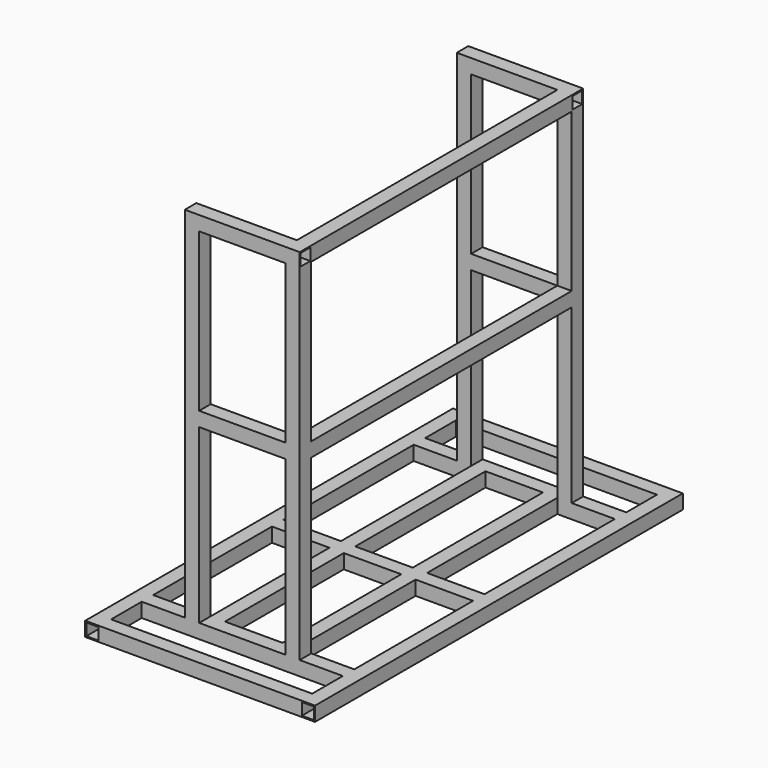
from build123d import *

# Parameters (mm, degrees)
F0_W      = 38.1
F0_H      = 38.1
F0_W_2    = 31.75
F0_H_2    = 31.75
F1_DEPTH  = 1219.2
F2_W      = 38.1
F2_H      = 38.1
F2_W_2    = 31.75
F2_H_2    = 31.75
F3_DEPTH  = 533.4
F4_W      = 38.1
F4_H      = 38.1
F4_W_2    = 31.75
F4_H_2    = 31.75
F5_DEPTH  = 1219.2
F6_W      = 38.1
F6_H      = 38.1
F6_W_2    = 31.75
F6_H_2    = 31.75
F7_DEPTH  = 533.4
F8_W      = 38.1
F8_H      = 38.1
F8_W_2    = 31.75
F8_H_2    = 31.75
F9_DEPTH  = 863.6
F10_W     = 38.1
F10_H     = 38.1
F10_W_2   = 31.75
F10_H_2   = 31.75
F11_DEPTH = 914.4
F12_W     = 38.1
F12_H     = 38.1
F12_W_2   = 31.75
F12_H_2   = 31.75
F13_DEPTH = 304.8
F14_W     = 38.1
F14_H     = 38.1
F14_W_2   = 31.75
F14_H_2   = 31.75
F15_DEPTH = 863.6
F16_W     = 38.1
F16_H     = 38.1
F16_W_2   = 31.75
F16_H_2   = 31.75
F17_DEPTH = 254


with BuildPart() as f1:
    # F0 (on Front) → F1 (new body)
    with BuildSketch(Plane.XZ):
        with Locations((19.05, 19.05)):
            Rectangle(F0_W, F0_H)
        with Locations((19.05, 19.05)):
            Rectangle(F0_W_2, F0_H_2, mode=Mode.SUBTRACT)
    extrude(amount=F1_DEPTH)

    # F2 (on face) → F3 (join)
    with BuildSketch(Plane.YZ.offset(38.1)):
        with Locations((-1200.15, 19.05)):
            Rectangle(F2_W, F2_H)
        with Locations((-1200.15, 19.05)):
            Rectangle(F2_W_2, F2_H_2, mode=Mode.SUBTRACT)
        with Locations((-19.05, 19.05)):
            Rectangle(F2_W, F2_H)
        with Locations((-19.05, 19.05)):
            Rectangle(F2_W_2, F2_H_2, mode=Mode.SUBTRACT)
    extrude(amount=F3_DEPTH)

    # F4 (on face) → F5 (join)
    with BuildSketch(Plane(origin=(0, 0, 0), x_dir=(-1, 0, 0), z_dir=(0, 1, 0))):
        with Locations((-590.55, 19.05)):
            Rectangle(F4_W, F4_H)
        with Locations((-590.55, 19.05)):
            Rectangle(F4_W_2, F4_H_2, mode=Mode.SUBTRACT)
    extrude(amount=-F5_DEPTH)

    # F6 (on face) → F7 (join)
    with BuildSketch(Plane.YZ.offset(38.1)):
        with Locations((-1060.45, 19.05)):
            Rectangle(F6_W, F6_H)
        with Locations((-1060.45, 19.05)):
            Rectangle(F6_W_2, F6_H_2, mode=Mode.SUBTRACT)
        with Locations((-158.75, 19.05)):
            Rectangle(F6_W, F6_H)
        with Locations((-158.75, 19.05)):
            Rectangle(F6_W_2, F6_H_2, mode=Mode.SUBTRACT)
        with Locations((-628.65, 19.05)):
            Rectangle(F6_W, F6_H)
        with Locations((-628.65, 19.05)):
            Rectangle(F6_W_2, F6_H_2, mode=Mode.SUBTRACT)
    extrude(amount=F7_DEPTH)

    # F8 (on face) → F9 (join)
    with BuildSketch(Plane.XZ.offset(177.8)):
        with Locations((209.55, 19.05)):
            Rectangle(F8_W, F8_H)
        with Locations((209.55, 19.05)):
            Rectangle(F8_W_2, F8_H_2, mode=Mode.SUBTRACT)
        with Locations((400.05, 19.05)):
            Rectangle(F8_W, F8_H)
        with Locations((400.05, 19.05)):
            Rectangle(F8_W_2, F8_H_2, mode=Mode.SUBTRACT)
    extrude(amount=F9_DEPTH)

    # F10 (on face) → F11 (join)
    with BuildSketch(Plane.XY.offset(38.1)):
        with Locations((438.15, -158.75)):
            Rectangle(F10_W, F10_H)
        with Locations((438.15, -158.75)):
            Rectangle(F10_W_2, F10_H_2, mode=Mode.SUBTRACT)
        with Locations((171.45, -158.75)):
            Rectangle(F10_W, F10_H)
        with Locations((171.45, -158.75)):
            Rectangle(F10_W_2, F10_H_2, mode=Mode.SUBTRACT)
        with Locations((438.15, -1060.45)):
            Rectangle(F10_W, F10_H)
        with Locations((438.15, -1060.45)):
            Rectangle(F10_W_2, F10_H_2, mode=Mode.SUBTRACT)
        with Locations((171.45, -1060.45)):
            Rectangle(F10_W, F10_H)
        with Locations((171.45, -1060.45)):
            Rectangle(F10_W_2, F10_H_2, mode=Mode.SUBTRACT)
    extrude(amount=F11_DEPTH)

    # F12 (on face) → F13 (join)
    with BuildSketch(Plane(origin=(152.4, 0, 0), x_dir=(0, -1, 0), z_dir=(-1, 0, 0))):
        with Locations((1060.45, 971.55)):
            Rectangle(F12_W, F12_H)
        with Locations((1060.45, 971.55)):
            Rectangle(F12_W_2, F12_H_2, mode=Mode.SUBTRACT)
        with Locations((158.75, 971.55)):
            Rectangle(F12_W, F12_H)
        with Locations((158.75, 971.55)):
            Rectangle(F12_W_2, F12_H_2, mode=Mode.SUBTRACT)
    extrude(amount=-F13_DEPTH)

    # F14 (on face) → F15 (join)
    with BuildSketch(Plane.XZ.offset(177.8)):
        with Locations((438.15, 971.55)):
            Rectangle(F14_W, F14_H)
        with Locations((438.15, 971.55)):
            Rectangle(F14_W_2, F14_H_2, mode=Mode.SUBTRACT)
        with Locations((438.15, 514.35)):
            Rectangle(F14_W, F14_H)
        with Locations((438.15, 514.35)):
            Rectangle(F14_W_2, F14_H_2, mode=Mode.SUBTRACT)
    extrude(amount=F15_DEPTH)

    # F16 (on face) → F17 (join)
    with BuildSketch(Plane(origin=(419.1, 0, 0), x_dir=(0, -1, 0), z_dir=(-1, 0, 0))):
        with Locations((158.75, 514.35)):
            Rectangle(F16_W, F16_H)
        with Locations((158.75, 514.35)):
            Rectangle(F16_W_2, F16_H_2, mode=Mode.SUBTRACT)
        with Locations((1060.45, 514.35)):
            Rectangle(F16_W, F16_H)
        with Locations((1060.45, 514.35)):
            Rectangle(F16_W_2, F16_H_2, mode=Mode.SUBTRACT)
    extrude(amount=F17_DEPTH)


solid = f1.part
